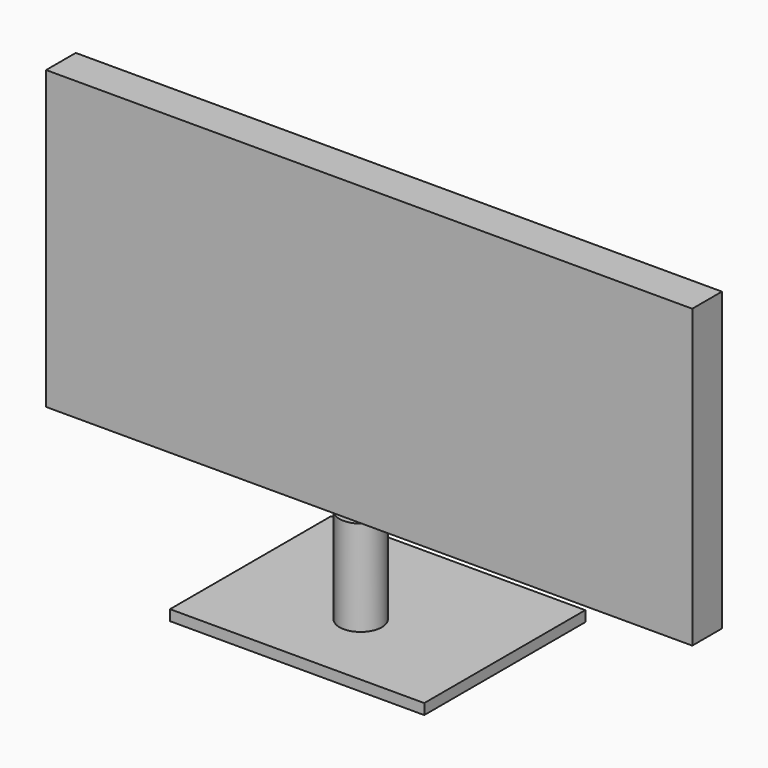
from build123d import *

# Parameters (mm, degrees)
BOX_W          = 61
BOX_H          = 3.5
BOX_DEPTH      = 28
BOX001_W       = 24
BOX001_H       = 19
BOX001_DEPTH   = 1
CYLINDER_R     = 2
CYLINDER_DEPTH = 10


with BuildPart() as pantalla:
    # Box → Box (new body)
    with BuildSketch(Plane(origin=(-28.5, 6, 10), x_dir=(1, 0, 0), z_dir=(0, 0, 1))):
        with Locations((30.5, 1.75)):
            Rectangle(BOX_W, BOX_H)
    extrude(amount=BOX_DEPTH)


with BuildPart() as base:
    # Box001 → Box001 (new body)
    with BuildSketch(Plane(origin=(-12, 0, 0), x_dir=(1, 0, 0), z_dir=(0, 0, 1))):
        with Locations((12, 9.5)):
            Rectangle(BOX001_W, BOX001_H)
    extrude(amount=BOX001_DEPTH)


with BuildPart() as cilindro:
    # Cylinder → Cylinder (new body)
    with BuildSketch(Plane(origin=(0, 7.5, 0), x_dir=(1, 0, 0), z_dir=(0, 0, 1))):
        Circle(CYLINDER_R)
    extrude(amount=CYLINDER_DEPTH)


solid = Compound([pantalla.part, base.part, cilindro.part])
